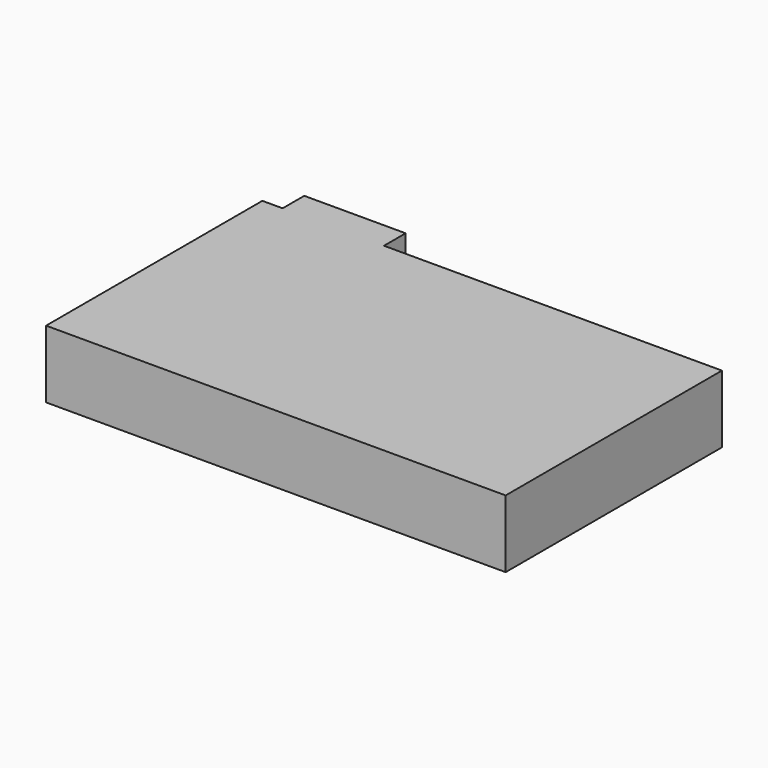
from build123d import *

# Parameters (mm, degrees)
F0_W     = 68
F0_H     = 10
F1_DEPTH = 40
F2_W     = 15
F2_H     = 10
F3_DEPTH = 4


with BuildPart() as f1:
    # F0 (on Front) → F1 (new body)
    with BuildSketch(Plane.XZ):
        Rectangle(F0_W, F0_H)
    extrude(amount=F1_DEPTH)

    # F2 (on face) → F3 (join)
    with BuildSketch(Plane(origin=(0, 0, 0), x_dir=(-1, 0, 0), z_dir=(0, 1, 0))):
        with Locations((23.5, 0)):
            Rectangle(F2_W, F2_H)
    extrude(amount=F3_DEPTH)


solid = f1.part
